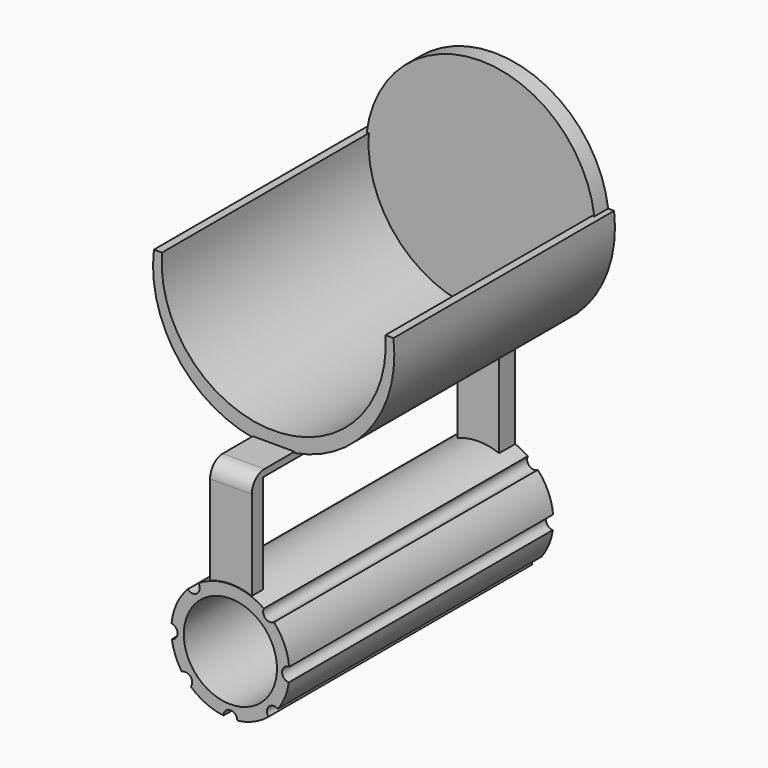
from build123d import *

# Parameters (mm, degrees)
F0_R      = 35
F1_DEPTH  = 80
F2_R      = 32.5
F3_DEPTH  = 210
F5_DEPTH  = 105.2
F6_W      = 12.09448
F6_H      = 1.902506
F7_DEPTH  = 95.5
F8_R      = 33.287755
F9_DEPTH  = 5
F10_W     = 12.09448
F10_H     = 3.986672
F11_DEPTH = 40
F12_R     = 4.587006
F13_R     = 17.134357
F14_DEPTH = 95.7
F15_W     = 12.09448
F15_H     = 5.800397
F16_DEPTH = 43.3
F17_R     = 2
F18_DEPTH = 126
F19_R     = 13.520251
F20_DEPTH = 90.5


with BuildPart() as f1:
    # F0 (on Front) → F1 (new body)
    with BuildSketch(Plane.XZ):
        Circle(F0_R)
        Circle(F0_R)
    extrude(amount=F1_DEPTH)

    # F2 (on Front) → F3 (cut)
    with BuildSketch(Plane.XZ):
        with Locations((0, 1.766609)):
            Circle(F2_R)
    extrude(amount=F3_DEPTH, mode=Mode.SUBTRACT)

    # F4 (on Front) → F5 (cut)
    with BuildSketch(Plane.XZ):
        Polygon((-54.289259, 17.530199), (-37.438527, 4.212684), (53.609796, 4.212684), (40.020492, 42.942192), (-37.710313, 49.736843), align=None)
    extrude(amount=F5_DEPTH, mode=Mode.SUBTRACT)

    # F6 (on Front) → F7 (join)
    with BuildSketch(Plane.XZ):
        with Locations((0, -35.060398)):
            Rectangle(F6_W, F6_H)
    extrude(amount=F7_DEPTH)

    # F8 (on Front) → F9 (join)
    with BuildSketch(Plane.XZ):
        Circle(F8_R)
    extrude(amount=F9_DEPTH)

    # F10 (on face) → F11 (join)
    with BuildSketch(Plane(origin=(0, 0, -36.011651), x_dir=(1, 0, 0), z_dir=(0, 0, -1))):
        with Locations((0, 93.506664)):
            Rectangle(F10_W, F10_H)
    extrude(amount=F11_DEPTH)

    # F12
    f12_edges = [f1.edges().sort_by_distance(p)[0] for p in [
        (0, -95.5, -34.109145),
    ]]
    fillet(f12_edges, radius=F12_R)

    # F13 (on Front) → F14 (join)
    with BuildSketch(Plane.XZ):
        with Locations((0, -80.717847)):
            Circle(F13_R)
    extrude(amount=F14_DEPTH)

    # F15 (on face) → F16 (join)
    with BuildSketch(Plane(origin=(0, 0, -36.011651), x_dir=(1, 0, 0), z_dir=(0, 0, -1))):
        with Locations((0, 2.900198)):
            Rectangle(F15_W, F15_H)
    extrude(amount=F16_DEPTH)

    # F17 (on Front) → F18 (cut)
    with BuildSketch(Plane.XZ):
        with Locations((-17.303864, -81.111342)):
            Circle(F17_R)
        with Locations((16.990671, -81.111342)):
            Circle(F17_R)
        with Locations((0, -97.71052)):
            Circle(F17_R)
        with Locations((-13.07577, -92.229657)):
            Circle(F17_R)
        with Locations((12.605982, -92.542849)):
            Circle(F17_R)
        with Locations((11.509809, -67.487486)):
            Circle(F17_R)
        with Locations((-10.883424, -67.487486)):
            Circle(F17_R)
    extrude(amount=F18_DEPTH, mode=Mode.SUBTRACT)

    # F19 (on face) → F20 (cut)
    with BuildSketch(Plane.XZ.offset(95.7)):
        with Locations((0, -80.717847)):
            Circle(F19_R)
    extrude(amount=-F20_DEPTH, mode=Mode.SUBTRACT)


solid = f1.part
